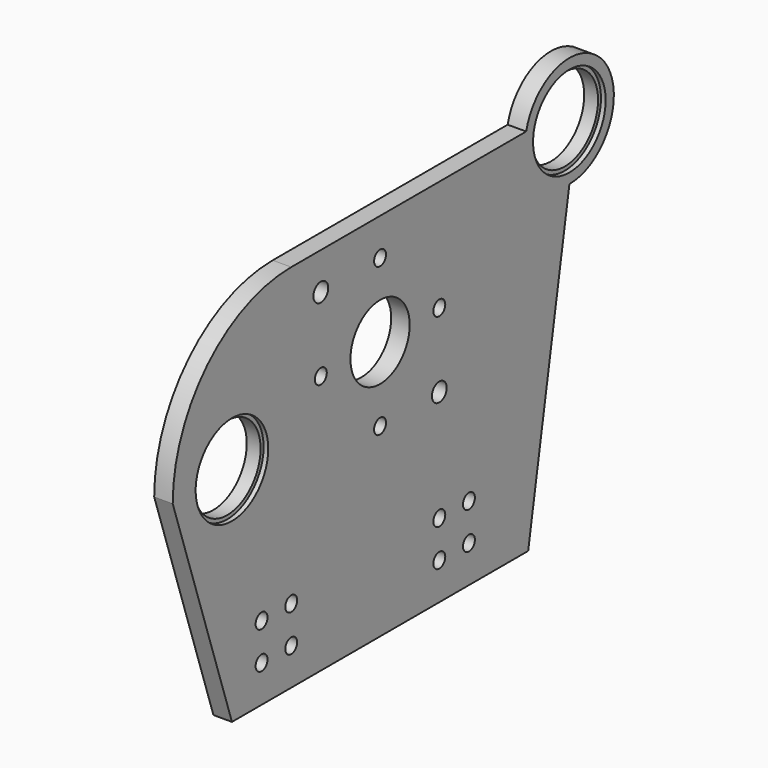
from build123d import *

# Parameters (mm, degrees)
F0_R     = 2.5527
F0_R_2   = 3.175
F0_R_3   = 14.2748
F0_R_4   = 12.7
F1_DEPTH = 6.35
F2_R     = 15.5575
F3_DEPTH = 1.6002


with BuildPart() as f1:
    # F0 (on Right) → F1 (new body)
    with BuildSketch(Plane.YZ):
        with BuildLine():
            Line((126.141029, 127), (25.4, 127))
            ThreePointArc((25.4, 127), (-10.521024, 112.121024), (-25.4, 76.2))
            Line((-25.4, 76.2), (0, 0))
            Line((0, 0), (12.7, 0))
            Line((12.7, 0), (25.4, 0))
            Line((25.4, 0), (101.6, 0))
            Line((101.6, 0), (127, 0))
            Line((127, 0), (144.683308, 103.5812))
            ThreePointArc((144.683308, 103.5812), (159.618637, 134.45653), (126.141029, 127))
        make_face()
        with Locations((12.7, 12.7)):
            Circle(F0_R, mode=Mode.SUBTRACT)
        with Locations((12.7, 25.4)):
            Circle(F0_R, mode=Mode.SUBTRACT)
        with Locations((25.4, 12.7)):
            Circle(F0_R, mode=Mode.SUBTRACT)
        with Locations((25.4, 25.4)):
            Circle(F0_R, mode=Mode.SUBTRACT)
        with Locations((63.5, 63.5)):
            Circle(F0_R, mode=Mode.SUBTRACT)
        with Locations((88.9, 12.7)):
            Circle(F0_R, mode=Mode.SUBTRACT)
        with Locations((101.6, 12.7)):
            Circle(F0_R, mode=Mode.SUBTRACT)
        with Locations((88.9, 25.4)):
            Circle(F0_R, mode=Mode.SUBTRACT)
        with Locations((101.6, 25.4)):
            Circle(F0_R, mode=Mode.SUBTRACT)
        with Locations((88.9, 63.5)):
            Circle(F0_R_2, mode=Mode.SUBTRACT)
        with Locations((0, 76.2)):
            Circle(F0_R_3, mode=Mode.SUBTRACT)
        with Locations((38.1, 88.9)):
            Circle(F0_R, mode=Mode.SUBTRACT)
        with Locations((63.5, 88.9)):
            Circle(F0_R_4, mode=Mode.SUBTRACT)
        with Locations((38.1, 114.3)):
            Circle(F0_R_2, mode=Mode.SUBTRACT)
        with Locations((63.5, 114.3)):
            Circle(F0_R, mode=Mode.SUBTRACT)
        with Locations((88.9, 88.9)):
            Circle(F0_R, mode=Mode.SUBTRACT)
        with Locations((144.683308, 122.6312)):
            Circle(F0_R_3, mode=Mode.SUBTRACT)
    extrude(amount=-F1_DEPTH)

    # F2 (on Right) → F3 (cut)
    with BuildSketch(Plane.YZ):
        with Locations((0, 76.2)):
            Circle(F2_R)
        with Locations((144.653, 122.6312)):
            Circle(F2_R)
    extrude(amount=-F3_DEPTH, mode=Mode.SUBTRACT)


solid = f1.part
